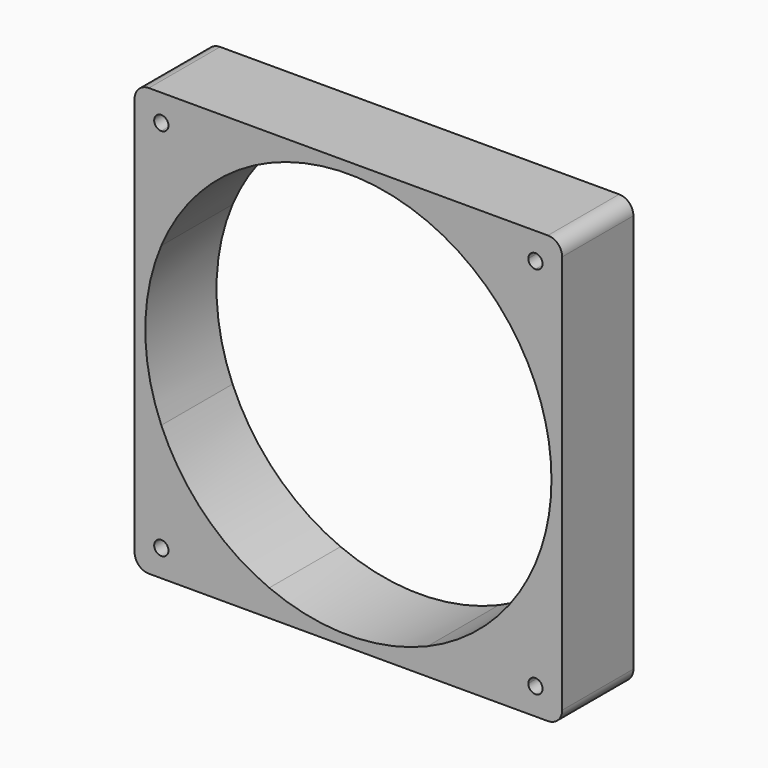
from build123d import *

# Parameters (mm, degrees)
F1_DEPTH = 25


with BuildPart() as f1:
    # F0 (on Front) → F1 (new body)
    with BuildSketch(Plane.XZ):
        with BuildLine():
            Line((-56, -60), (56, -60))
            ThreePointArc((56, -60), (58.8284271247, -58.8284271247), (60, -56))
            Line((60, -56), (60, 56))
            ThreePointArc((60, 56), (58.8284271247, 58.8284271247), (56, 60))
            Line((56, 60), (-56, 60))
            ThreePointArc((-56, 60), (-58.8284271247, 58.8284271247), (-60, 56))
            Line((-60, 56), (-60, -56))
            ThreePointArc((-60, -56), (-58.8284271247, -58.8284271247), (-56, -60))
        make_face()
        with BuildLine():
            ThreePointArc((52.5, 22.1979728804), (55.8636733486, 11.3247516529), (57, 0))
            ThreePointArc((57, 0), (55.8636733486, -11.3247516529), (52.5, -22.1979728804))
            Line((52.5, -22.1979728804), (52.5, -50.5))
            ThreePointArc((52.5, -50.5), (53.9142135624, -51.0857864376), (54.5, -52.5))
            ThreePointArc((54.5, -52.5), (52.5, -54.5), (50.5, -52.5))
            Line((50.5, -52.5), (22.1979728804, -52.5))
            ThreePointArc((22.1979728804, -52.5), (0, -57), (-22.1979728804, -52.5))
            Line((-22.1979728804, -52.5), (-50.5, -52.5))
            ThreePointArc((-50.5, -52.5), (-53.9142135624, -53.9142135624), (-52.5, -50.5))
            Line((-52.5, -50.5), (-52.5, -22.1979728804))
            ThreePointArc((-52.5, -22.1979728804), (-57, 0), (-52.5, 22.1979728804))
            Line((-52.5, 22.1979728804), (-52.5, 50.5))
            ThreePointArc((-52.5, 50.5), (-53.9142135624, 53.9142135624), (-50.5, 52.5))
            Line((-50.5, 52.5), (-22.1979728804, 52.5))
            ThreePointArc((-22.1979728804, 52.5), (0, 57), (22.1979728804, 52.5))
            Line((22.1979728804, 52.5), (50.5, 52.5))
            ThreePointArc((50.5, 52.5), (52.5, 54.5), (54.5, 52.5))
            ThreePointArc((54.5, 52.5), (53.9142135624, 51.0857864376), (52.5, 50.5))
            Line((52.5, 50.5), (52.5, 22.1979728804))
        make_face(mode=Mode.SUBTRACT)
        with BuildLine():
            ThreePointArc((-52.5, 22.1979728804), (-40.3050865276, 40.3050865276), (-22.1979728804, 52.5))
            Line((-22.1979728804, 52.5), (-50.5, 52.5))
            ThreePointArc((-50.5, 52.5), (-51.0857864376, 51.0857864376), (-52.5, 50.5))
            Line((-52.5, 50.5), (-52.5, 22.1979728804))
        make_face()
        with BuildLine():
            ThreePointArc((22.1979728804, 52.5), (40.3050865276, 40.3050865276), (52.5, 22.1979728804))
            Line((52.5, 22.1979728804), (52.5, 50.5))
            ThreePointArc((52.5, 50.5), (51.0857864376, 51.0857864376), (50.5, 52.5))
            Line((50.5, 52.5), (22.1979728804, 52.5))
        make_face()
        with BuildLine():
            Line((52.5, -50.5), (52.5, -22.1979728804))
            ThreePointArc((52.5, -22.1979728804), (40.3050865276, -40.3050865276), (22.1979728804, -52.5))
            Line((22.1979728804, -52.5), (50.5, -52.5))
            ThreePointArc((50.5, -52.5), (51.0857864376, -51.0857864376), (52.5, -50.5))
        make_face()
        with BuildLine():
            Line((-50.5, -52.5), (-22.1979728804, -52.5))
            ThreePointArc((-22.1979728804, -52.5), (-40.3050865276, -40.3050865276), (-52.5, -22.1979728804))
            Line((-52.5, -22.1979728804), (-52.5, -50.5))
            ThreePointArc((-52.5, -50.5), (-51.0857864376, -51.0857864376), (-50.5, -52.5))
        make_face()
    extrude(amount=F1_DEPTH)


solid = f1.part
